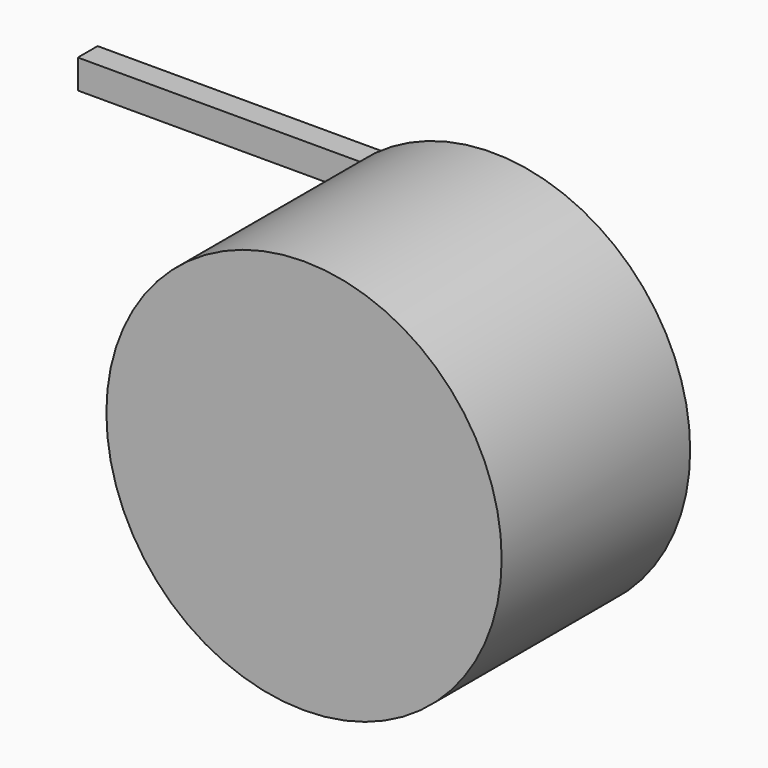
from build123d import *

# Parameters (mm, degrees)
F0_R     = 42.6143864145
F0_R_2   = 6.7521330408
F1_DEPTH = 25.4
F2_DEPTH = 25.4
F3_W     = 89.4087702036
F3_H     = 6.2658451498
F4_DEPTH = 5.334


with BuildPart() as f1:
    # F0 (on Front) → F1 (new body)
    with BuildSketch(Plane.XZ):
        Circle(F0_R)
        Circle(F0_R_2, mode=Mode.SUBTRACT)
        Circle(F0_R_2)
    extrude(amount=F1_DEPTH)

    # F2 (add): a face of the model
    f2_faces = [f1.faces().sort_by_distance(p)[0] for p in [
        (0, -25.4, 0),
    ]]
    extrude(f2_faces, amount=F2_DEPTH)

    # F3 (on Front) → F4 (join)
    with BuildSketch(Plane.XZ):
        with Locations((-44.7043851018, 28.437288478)):
            Rectangle(F3_W, F3_H)
    extrude(amount=-F4_DEPTH)


solid = f1.part
